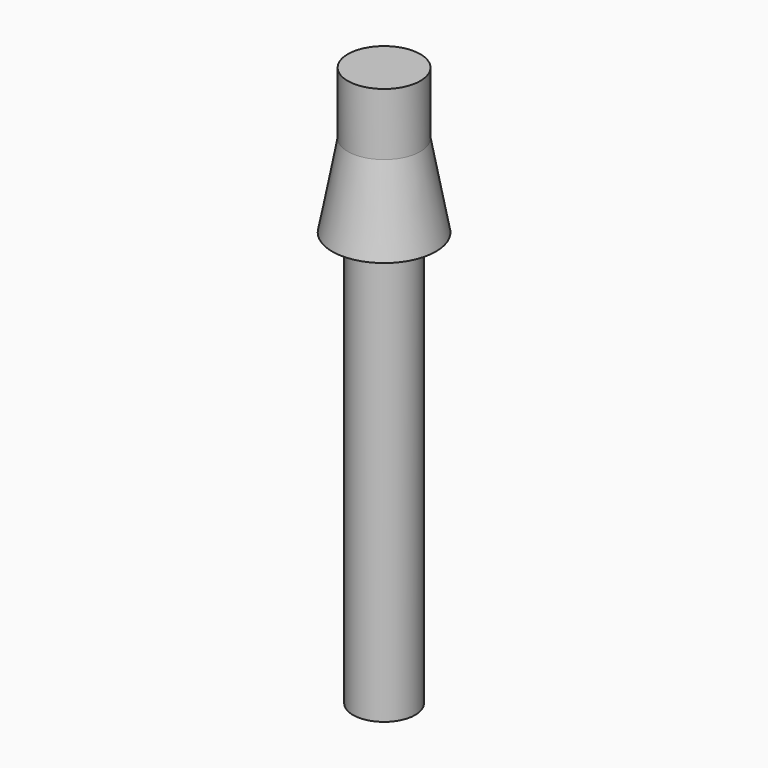
from build123d import *

# Parameters (mm, degrees)
SKETCH015_R  = 1.75
SKETCH016_R  = 2.5
SKETCH017_R  = 1.5
PAD007_DEPTH = 20
SKETCH014_R  = 1.75
PAD008_DEPTH = 3


with BuildPart() as part:
    # Sketch015 → AdditiveLoft001 section 0
    with BuildSketch(Plane.XY.offset(-5)):
        Circle(SKETCH015_R)
    # Sketch016 → AdditiveLoft001 section 1
    with BuildSketch(Plane.XY.offset(-9)):
        Circle(SKETCH016_R)
    loft()

    # Sketch017 → Pad007 (new body)
    with BuildSketch(Plane.XY.offset(-9)):
        Circle(SKETCH017_R)
    extrude(amount=-PAD007_DEPTH)

    # Sketch014 → Pad008 (join)
    with BuildSketch(Plane.XY.offset(-5)):
        Circle(SKETCH014_R)
    extrude(amount=PAD008_DEPTH)


solid = part.part
